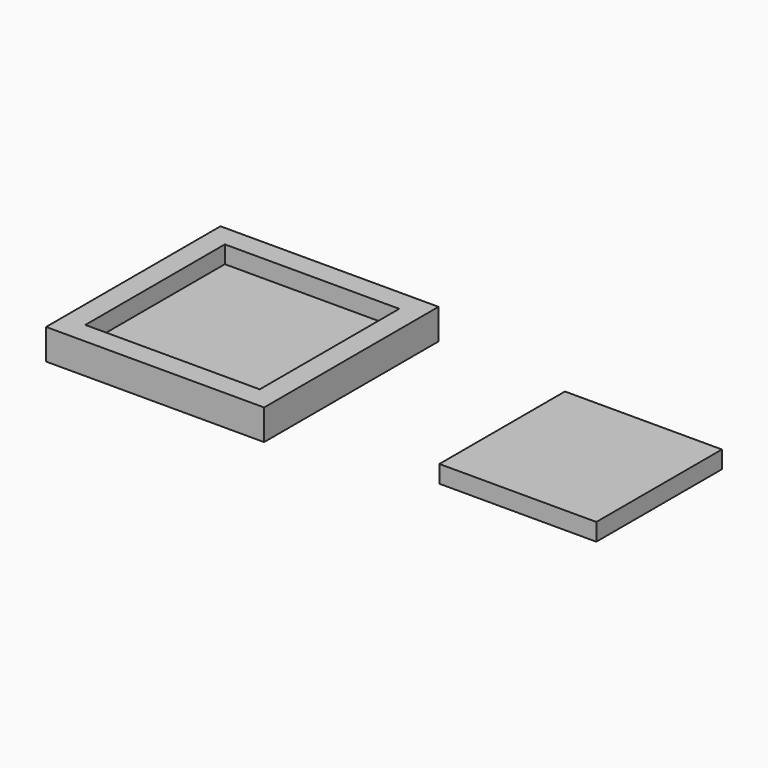
from build123d import *

# Parameters (mm, degrees)
F0_W     = 25
F0_H     = 25
F0_W_2   = 20
F0_H_2   = 20
F1_DEPTH = 3.5
F0_W_3   = 18
F0_H_3   = 18
F2_DEPTH = 1.5
F3_DEPTH = 2


with BuildPart() as f1:
    # F0 (on Top) → F1 (new body)
    with BuildSketch(Plane.XY):
        Rectangle(F0_W, F0_H)
        Rectangle(F0_W_2, F0_H_2, mode=Mode.SUBTRACT)
    extrude(amount=F1_DEPTH)

    # F0 (on Top) → F2 (join)
    with BuildSketch(Plane.XY):
        Rectangle(F0_W_2, F0_H_2)
        Rectangle(F0_W_3, F0_H_3, mode=Mode.SUBTRACT)
        Rectangle(F0_W_3, F0_H_3)
    extrude(amount=F2_DEPTH)


with BuildPart() as f3:
    # F0 (on Top) → F3 (new body)
    with BuildSketch(Plane.XY):
        with Locations((38.799269, 0)):
            Rectangle(F0_W_3, F0_H_3)
    extrude(amount=F3_DEPTH)


solid = Compound([f1.part, f3.part])
